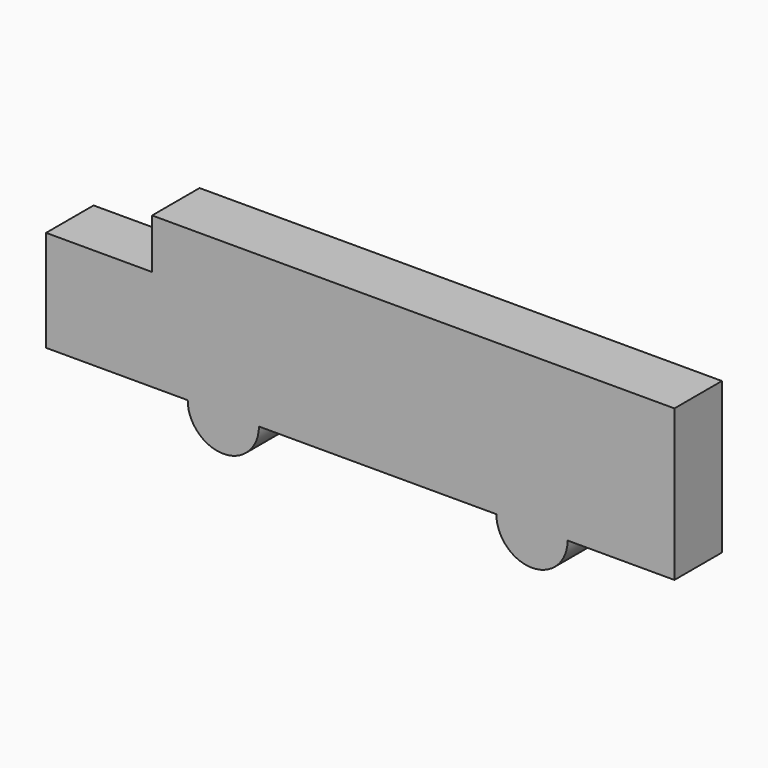
from build123d import *

# Parameters (mm, degrees)
F0_W     = 44.6507322788
F0_H     = 42.6493223691
F1_DEPTH = 25


with BuildPart() as f1:
    # F0 (on Front) → F1 (new body)
    with BuildSketch(Plane.XZ):
        with BuildLine():
            Line((0, -63.6163663053), (0, 0))
            Line((0, 0), (-220, 0))
            Line((-220, 0), (-220, -20.9670439363))
            Line((-220, -20.9670439363), (-220, -63.6163663053))
            Line((-220, -63.6163663053), (-205, -63.6163663053))
            ThreePointArc((-205, -63.6163663053), (-190, -48.6163663053), (-175, -63.6163663053))
            Line((-175, -63.6163663053), (-75, -63.6163663053))
            ThreePointArc((-75, -63.6163663053), (-60, -48.6163663053), (-45, -63.6163663053))
            Line((-45, -63.6163663053), (0, -63.6163663053))
        make_face()
        with Locations((-242.3253661394, -42.2917051208)):
            Rectangle(F0_W, F0_H)
        with BuildLine():
            ThreePointArc((-75, -63.6163663053), (-60, -78.6163663053), (-45, -63.6163663053))
            Line((-45, -63.6163663053), (-75, -63.6163663053))
        make_face()
        with BuildLine():
            Line((-75, -63.6163663053), (-45, -63.6163663053))
            ThreePointArc((-45, -63.6163663053), (-60, -48.6163663053), (-75, -63.6163663053))
        make_face()
        with BuildLine():
            ThreePointArc((-175, -63.6163663053), (-190, -48.6163663053), (-205, -63.6163663053))
            Line((-205, -63.6163663053), (-175, -63.6163663053))
        make_face()
        with BuildLine():
            Line((-175, -63.6163663053), (-205, -63.6163663053))
            ThreePointArc((-205, -63.6163663053), (-190, -78.6163663053), (-175, -63.6163663053))
        make_face()
    extrude(amount=F1_DEPTH)


solid = f1.part
